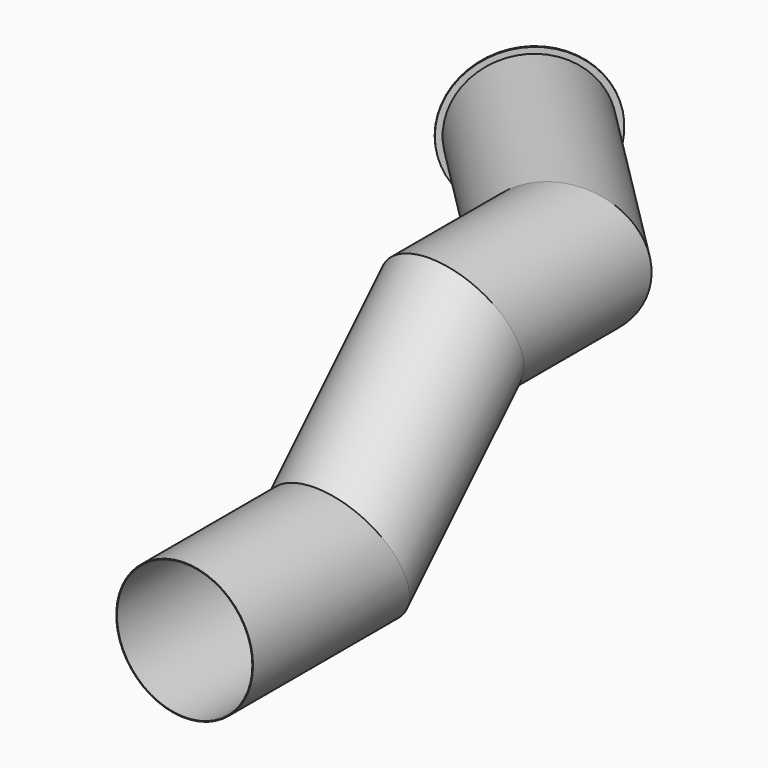
from build123d import *

# Parameters (mm, degrees)
F3_R     = 505
F3_R_2   = 500
F5_R     = 550
F5_R_2   = 500
F6_DEPTH = 10


with BuildPart() as f4:
    # F4: sweep along a path in F1, F0
    with BuildLine(Plane.YZ) as f4_path:
        Line((-3470, -1060), (-2060, -1060))
        Line((-2060, -1060), (-1000, 0))
    with BuildLine(Plane.XY) as f4_path_2:
        Line((0, -1000), (0, 0))
        Line((0, 0), (-1150, 1150))
    # F3 (on offset) → F4 (sweep)
    with BuildSketch(Plane.XZ.offset(3470)):
        with Locations((0, -1060)):
            Circle(F3_R)
        with Locations((0, -1060)):
            Circle(F3_R_2, mode=Mode.SUBTRACT)
    sweep(path=f4_path.line + f4_path_2.line, transition=Transition.RIGHT)

    # F5 (on face) → F6 (join)
    with BuildSketch(Plane(origin=(-1150, 1150, 0), x_dir=(-0.7071067812, -0.7071067812, 0), z_dir=(-0.7071067812, 0.7071067812, 0))):
        Circle(F5_R)
        Circle(F5_R_2, mode=Mode.SUBTRACT)
    extrude(amount=-F6_DEPTH)


solid = f4.part
